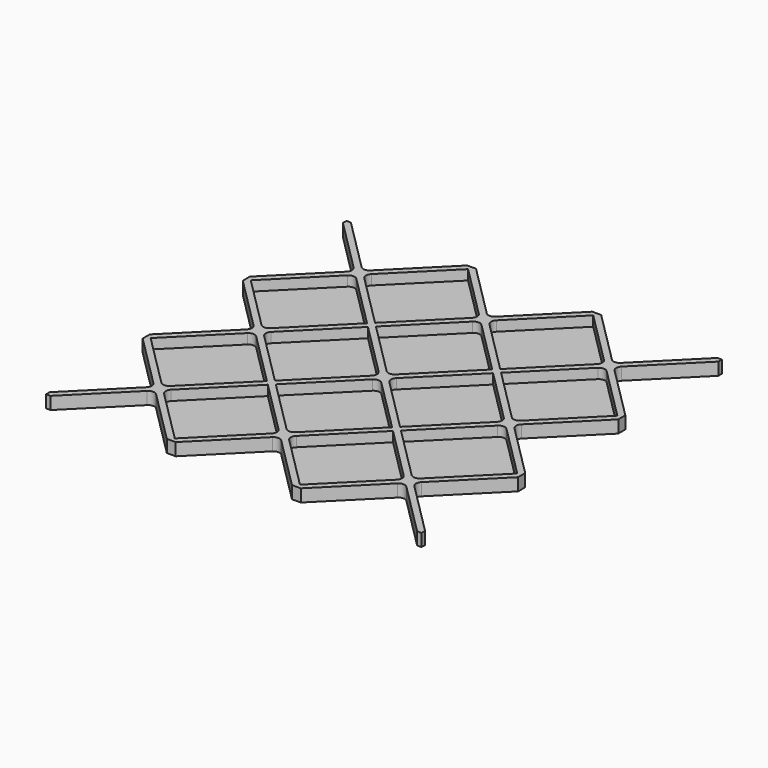
from build123d import *

# Parameters (mm, degrees)
F1_DEPTH = 2
F2_DEPTH = 0.4


with BuildPart() as f1:
    # F0 (on Top) → F1 (new body)
    with BuildSketch(Plane.XY):
        with BuildLine():
            ThreePointArc((-1.414214, 0.707107), (-1.12132, 0), (-1.414214, -0.707107))
            Line((-1.414214, -0.707107), (-10, -9.292893))
            Line((-10, -9.292893), (-10, -10))
            Line((-10, -10), (-9.292893, -10))
            Line((-9.292893, -10), (-0.707107, -1.414214))
            ThreePointArc((-0.707107, -1.414214), (0, -1.12132), (0.707107, -1.414214))
            Line((0.707107, -1.414214), (9.292893, -10))
            Line((9.292893, -10), (10, -10))
            Line((10, -10), (10, -9.292893))
            Line((10, -9.292893), (1.414214, -0.707107))
            ThreePointArc((1.414214, -0.707107), (1.12132, 0), (1.414214, 0.707107))
            Line((1.414214, 0.707107), (10, 9.292893))
            Line((10, 9.292893), (10, 10))
            Line((10, 10), (9.292893, 10))
            Line((9.292893, 10), (0.707107, 1.414214))
            ThreePointArc((0.707107, 1.414214), (0, 1.12132), (-0.707107, 1.414214))
            Line((-0.707107, 1.414214), (-9.292893, 10))
            Line((-9.292893, 10), (-10, 10))
            Line((-10, 10), (-10, 9.292893))
            Line((-10, 9.292893), (-1.414214, 0.707107))
        make_face()
        with BuildLine():
            Line((10, 10.707107), (10, 10))
            Line((10, 10), (10.707107, 10))
            Line((10.707107, 10), (19.292893, 18.585786))
            ThreePointArc((19.292893, 18.585786), (20, 18.87868), (20.707107, 18.585786))
            Line((20.707107, 18.585786), (29.292893, 10))
            Line((29.292893, 10), (30, 10))
            Line((30, 10), (30, 10.707107))
            Line((30, 10.707107), (21.414214, 19.292893))
            ThreePointArc((21.414214, 19.292893), (21.12132, 20), (21.414214, 20.707107))
            Line((21.414214, 20.707107), (30, 29.292893))
            Line((30, 29.292893), (30, 30))
            Line((30, 30), (29.292893, 30))
            Line((29.292893, 30), (20.707107, 21.414214))
            ThreePointArc((20.707107, 21.414214), (20, 21.12132), (19.292893, 21.414214))
            Line((19.292893, 21.414214), (10.707107, 30))
            Line((10.707107, 30), (10, 30))
            Line((10, 30), (10, 29.292893))
            Line((10, 29.292893), (18.585786, 20.707107))
            ThreePointArc((18.585786, 20.707107), (18.87868, 20), (18.585786, 19.292893))
            Line((18.585786, 19.292893), (10, 10.707107))
        make_face()
        with BuildLine():
            Line((10, -9.292893), (10, -10))
            Line((10, -10), (10.707107, -10))
            Line((10.707107, -10), (19.292893, -1.414214))
            ThreePointArc((19.292893, -1.414214), (20, -1.12132), (20.707107, -1.414214))
            Line((20.707107, -1.414214), (29.292893, -10))
            Line((29.292893, -10), (30, -10))
            Line((30, -10), (30, -9.292893))
            Line((30, -9.292893), (21.414214, -0.707107))
            ThreePointArc((21.414214, -0.707107), (21.12132, 0), (21.414214, 0.707107))
            Line((21.414214, 0.707107), (30, 9.292893))
            Line((30, 9.292893), (30, 10))
            Line((30, 10), (29.292893, 10))
            Line((29.292893, 10), (20.707107, 1.414214))
            ThreePointArc((20.707107, 1.414214), (20, 1.12132), (19.292893, 1.414214))
            Line((19.292893, 1.414214), (10.707107, 10))
            Line((10.707107, 10), (10, 10))
            Line((10, 10), (10, 9.292893))
            Line((10, 9.292893), (18.585786, 0.707107))
            ThreePointArc((18.585786, 0.707107), (18.87868, 0), (18.585786, -0.707107))
            Line((18.585786, -0.707107), (10, -9.292893))
        make_face()
        with BuildLine():
            Line((-10, 10.707107), (-10, 10))
            Line((-10, 10), (-9.292893, 10))
            Line((-9.292893, 10), (-0.707107, 18.585786))
            ThreePointArc((-0.707107, 18.585786), (0, 18.87868), (0.707107, 18.585786))
            Line((0.707107, 18.585786), (9.292893, 10))
            Line((9.292893, 10), (10, 10))
            Line((10, 10), (10, 10.707107))
            Line((10, 10.707107), (1.414214, 19.292893))
            ThreePointArc((1.414214, 19.292893), (1.12132, 20), (1.414214, 20.707107))
            Line((1.414214, 20.707107), (10, 29.292893))
            Line((10, 29.292893), (10, 30))
            Line((10, 30), (9.292893, 30))
            Line((9.292893, 30), (0.707107, 21.414214))
            ThreePointArc((0.707107, 21.414214), (0, 21.12132), (-0.707107, 21.414214))
            Line((-0.707107, 21.414214), (-9.292893, 30))
            Line((-9.292893, 30), (-10, 30))
            Line((-10, 30), (-10, 29.292893))
            Line((-10, 29.292893), (-1.414214, 20.707107))
            ThreePointArc((-1.414214, 20.707107), (-1.12132, 20), (-1.414214, 19.292893))
            Line((-1.414214, 19.292893), (-10, 10.707107))
        make_face()
        with BuildLine():
            Line((30, 10.707107), (30, 10))
            Line((30, 10), (30.707107, 10))
            Line((30.707107, 10), (39.292893, 18.585786))
            ThreePointArc((39.292893, 18.585786), (40, 18.87868), (40.707107, 18.585786))
            Line((40.707107, 18.585786), (49.292893, 10))
            Line((49.292893, 10), (50, 10))
            Line((50, 10), (50, 10.707107))
            Line((50, 10.707107), (41.414214, 19.292893))
            ThreePointArc((41.414214, 19.292893), (41.12132, 20), (41.414214, 20.707107))
            Line((41.414214, 20.707107), (50, 29.292893))
            Line((50, 29.292893), (50, 30))
            Line((50, 30), (49.292893, 30))
            Line((49.292893, 30), (40.707107, 21.414214))
            ThreePointArc((40.707107, 21.414214), (40, 21.12132), (39.292893, 21.414214))
            Line((39.292893, 21.414214), (30.707107, 30))
            Line((30.707107, 30), (30, 30))
            Line((30, 30), (30, 29.292893))
            Line((30, 29.292893), (38.585786, 20.707107))
            ThreePointArc((38.585786, 20.707107), (38.87868, 20), (38.585786, 19.292893))
            Line((38.585786, 19.292893), (30, 10.707107))
        make_face()
        with BuildLine():
            Line((30, -9.292893), (30, -10))
            Line((30, -10), (30.707107, -10))
            Line((30.707107, -10), (39.292893, -1.414214))
            ThreePointArc((39.292893, -1.414214), (40, -1.12132), (40.707107, -1.414214))
            Line((40.707107, -1.414214), (49.292893, -10))
            Line((49.292893, -10), (50, -10))
            Line((50, -10), (50, -9.292893))
            Line((50, -9.292893), (41.414214, -0.707107))
            ThreePointArc((41.414214, -0.707107), (41.12132, 0), (41.414214, 0.707107))
            Line((41.414214, 0.707107), (50, 9.292893))
            Line((50, 9.292893), (50, 10))
            Line((50, 10), (49.292893, 10))
            Line((49.292893, 10), (40.707107, 1.414214))
            ThreePointArc((40.707107, 1.414214), (40, 1.12132), (39.292893, 1.414214))
            Line((39.292893, 1.414214), (30.707107, 10))
            Line((30.707107, 10), (30, 10))
            Line((30, 10), (30, 9.292893))
            Line((30, 9.292893), (38.585786, 0.707107))
            ThreePointArc((38.585786, 0.707107), (38.87868, 0), (38.585786, -0.707107))
            Line((38.585786, -0.707107), (30, -9.292893))
        make_face()
        with BuildLine():
            Line((30, 30.707107), (30, 30))
            Line((30, 30), (30.707107, 30))
            Line((30.707107, 30), (39.292893, 38.585786))
            ThreePointArc((39.292893, 38.585786), (40, 38.87868), (40.707107, 38.585786))
            Line((40.707107, 38.585786), (49.292893, 30))
            Line((49.292893, 30), (50, 30))
            Line((50, 30), (50, 30.707107))
            Line((50, 30.707107), (41.414214, 39.292893))
            ThreePointArc((41.414214, 39.292893), (41.12132, 40), (41.414214, 40.707107))
            Line((41.414214, 40.707107), (50, 49.292893))
            Line((50, 49.292893), (50, 50))
            Line((50, 50), (49.292893, 50))
            Line((49.292893, 50), (40.707107, 41.414214))
            ThreePointArc((40.707107, 41.414214), (40, 41.12132), (39.292893, 41.414214))
            Line((39.292893, 41.414214), (30.707107, 50))
            Line((30.707107, 50), (30, 50))
            Line((30, 50), (30, 49.292893))
            Line((30, 49.292893), (38.585786, 40.707107))
            ThreePointArc((38.585786, 40.707107), (38.87868, 40), (38.585786, 39.292893))
            Line((38.585786, 39.292893), (30, 30.707107))
        make_face()
        with BuildLine():
            Line((10, 30.707107), (10, 30))
            Line((10, 30), (10.707107, 30))
            Line((10.707107, 30), (19.292893, 38.585786))
            ThreePointArc((19.292893, 38.585786), (20, 38.87868), (20.707107, 38.585786))
            Line((20.707107, 38.585786), (29.292893, 30))
            Line((29.292893, 30), (30, 30))
            Line((30, 30), (30, 30.707107))
            Line((30, 30.707107), (21.414214, 39.292893))
            ThreePointArc((21.414214, 39.292893), (21.12132, 40), (21.414214, 40.707107))
            Line((21.414214, 40.707107), (30, 49.292893))
            Line((30, 49.292893), (30, 50))
            Line((30, 50), (29.292893, 50))
            Line((29.292893, 50), (20.707107, 41.414214))
            ThreePointArc((20.707107, 41.414214), (20, 41.12132), (19.292893, 41.414214))
            Line((19.292893, 41.414214), (10.707107, 50))
            Line((10.707107, 50), (10, 50))
            Line((10, 50), (10, 49.292893))
            Line((10, 49.292893), (18.585786, 40.707107))
            ThreePointArc((18.585786, 40.707107), (18.87868, 40), (18.585786, 39.292893))
            Line((18.585786, 39.292893), (10, 30.707107))
        make_face()
        with BuildLine():
            Line((-10, 30.707107), (-10, 30))
            Line((-10, 30), (-9.292893, 30))
            Line((-9.292893, 30), (-0.707107, 38.585786))
            ThreePointArc((-0.707107, 38.585786), (0, 38.87868), (0.707107, 38.585786))
            Line((0.707107, 38.585786), (9.292893, 30))
            Line((9.292893, 30), (10, 30))
            Line((10, 30), (10, 30.707107))
            Line((10, 30.707107), (1.414214, 39.292893))
            ThreePointArc((1.414214, 39.292893), (1.12132, 40), (1.414214, 40.707107))
            Line((1.414214, 40.707107), (10, 49.292893))
            Line((10, 49.292893), (10, 50))
            Line((10, 50), (9.292893, 50))
            Line((9.292893, 50), (0.707107, 41.414214))
            ThreePointArc((0.707107, 41.414214), (0, 41.12132), (-0.707107, 41.414214))
            Line((-0.707107, 41.414214), (-9.292893, 50))
            Line((-9.292893, 50), (-10, 50))
            Line((-10, 50), (-10, 49.292893))
            Line((-10, 49.292893), (-1.414214, 40.707107))
            ThreePointArc((-1.414214, 40.707107), (-1.12132, 40), (-1.414214, 39.292893))
            Line((-1.414214, 39.292893), (-10, 30.707107))
        make_face()
    extrude(amount=F1_DEPTH)

    # F0 (on Top) → F2 (join)
    with BuildSketch(Plane.XY):
        with BuildLine():
            Line((-0.707107, 18.585786), (-9.292893, 10))
            Line((-9.292893, 10), (-0.707107, 1.414214))
            ThreePointArc((-0.707107, 1.414214), (0, 1.12132), (0.707107, 1.414214))
            Line((0.707107, 1.414214), (9.292893, 10))
            Line((9.292893, 10), (0.707107, 18.585786))
            ThreePointArc((0.707107, 18.585786), (0, 18.87868), (-0.707107, 18.585786))
        make_face()
        with BuildLine():
            Line((1.414214, -0.707107), (10, -9.292893))
            Line((10, -9.292893), (18.585786, -0.707107))
            ThreePointArc((18.585786, -0.707107), (18.87868, 0), (18.585786, 0.707107))
            Line((18.585786, 0.707107), (10, 9.292893))
            Line((10, 9.292893), (1.414214, 0.707107))
            ThreePointArc((1.414214, 0.707107), (1.12132, 0), (1.414214, -0.707107))
        make_face()
        with BuildLine():
            Line((1.414214, 19.292893), (10, 10.707107))
            Line((10, 10.707107), (18.585786, 19.292893))
            ThreePointArc((18.585786, 19.292893), (18.87868, 20), (18.585786, 20.707107))
            Line((18.585786, 20.707107), (10, 29.292893))
            Line((10, 29.292893), (1.414214, 20.707107))
            ThreePointArc((1.414214, 20.707107), (1.12132, 20), (1.414214, 19.292893))
        make_face()
        with BuildLine():
            Line((19.292893, 18.585786), (10.707107, 10))
            Line((10.707107, 10), (19.292893, 1.414214))
            ThreePointArc((19.292893, 1.414214), (20, 1.12132), (20.707107, 1.414214))
            Line((20.707107, 1.414214), (29.292893, 10))
            Line((29.292893, 10), (20.707107, 18.585786))
            ThreePointArc((20.707107, 18.585786), (20, 18.87868), (19.292893, 18.585786))
        make_face()
        with BuildLine():
            Line((21.414214, -0.707107), (30, -9.292893))
            Line((30, -9.292893), (38.585786, -0.707107))
            ThreePointArc((38.585786, -0.707107), (38.87868, 0), (38.585786, 0.707107))
            Line((38.585786, 0.707107), (30, 9.292893))
            Line((30, 9.292893), (21.414214, 0.707107))
            ThreePointArc((21.414214, 0.707107), (21.12132, 0), (21.414214, -0.707107))
        make_face()
        with BuildLine():
            Line((21.414214, 19.292893), (30, 10.707107))
            Line((30, 10.707107), (38.585786, 19.292893))
            ThreePointArc((38.585786, 19.292893), (38.87868, 20), (38.585786, 20.707107))
            Line((38.585786, 20.707107), (30, 29.292893))
            Line((30, 29.292893), (21.414214, 20.707107))
            ThreePointArc((21.414214, 20.707107), (21.12132, 20), (21.414214, 19.292893))
        make_face()
        with BuildLine():
            Line((39.292893, 18.585786), (30.707107, 10))
            Line((30.707107, 10), (39.292893, 1.414214))
            ThreePointArc((39.292893, 1.414214), (40, 1.12132), (40.707107, 1.414214))
            Line((40.707107, 1.414214), (49.292893, 10))
            Line((49.292893, 10), (40.707107, 18.585786))
            ThreePointArc((40.707107, 18.585786), (40, 18.87868), (39.292893, 18.585786))
        make_face()
        with BuildLine():
            Line((19.292893, 38.585786), (10.707107, 30))
            Line((10.707107, 30), (19.292893, 21.414214))
            ThreePointArc((19.292893, 21.414214), (20, 21.12132), (20.707107, 21.414214))
            Line((20.707107, 21.414214), (29.292893, 30))
            Line((29.292893, 30), (20.707107, 38.585786))
            ThreePointArc((20.707107, 38.585786), (20, 38.87868), (19.292893, 38.585786))
        make_face()
        with BuildLine():
            Line((1.414214, 39.292893), (10, 30.707107))
            Line((10, 30.707107), (18.585786, 39.292893))
            ThreePointArc((18.585786, 39.292893), (18.87868, 40), (18.585786, 40.707107))
            Line((18.585786, 40.707107), (10, 49.292893))
            Line((10, 49.292893), (1.414214, 40.707107))
            ThreePointArc((1.414214, 40.707107), (1.12132, 40), (1.414214, 39.292893))
        make_face()
        with BuildLine():
            Line((-0.707107, 38.585786), (-9.292893, 30))
            Line((-9.292893, 30), (-0.707107, 21.414214))
            ThreePointArc((-0.707107, 21.414214), (0, 21.12132), (0.707107, 21.414214))
            Line((0.707107, 21.414214), (9.292893, 30))
            Line((9.292893, 30), (0.707107, 38.585786))
            ThreePointArc((0.707107, 38.585786), (0, 38.87868), (-0.707107, 38.585786))
        make_face()
        with BuildLine():
            Line((21.414214, 39.292893), (30, 30.707107))
            Line((30, 30.707107), (38.585786, 39.292893))
            ThreePointArc((38.585786, 39.292893), (38.87868, 40), (38.585786, 40.707107))
            Line((38.585786, 40.707107), (30, 49.292893))
            Line((30, 49.292893), (21.414214, 40.707107))
            ThreePointArc((21.414214, 40.707107), (21.12132, 40), (21.414214, 39.292893))
        make_face()
        with BuildLine():
            Line((39.292893, 38.585786), (30.707107, 30))
            Line((30.707107, 30), (39.292893, 21.414214))
            ThreePointArc((39.292893, 21.414214), (40, 21.12132), (40.707107, 21.414214))
            Line((40.707107, 21.414214), (49.292893, 30))
            Line((49.292893, 30), (40.707107, 38.585786))
            ThreePointArc((40.707107, 38.585786), (40, 38.87868), (39.292893, 38.585786))
        make_face()
    extrude(amount=F2_DEPTH)


solid = f1.part
